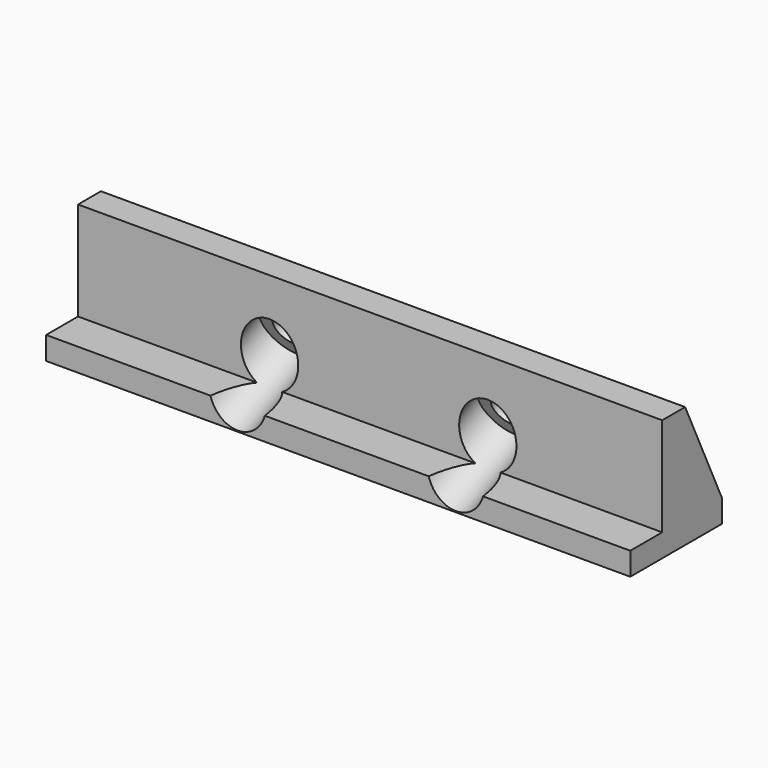
from build123d import *

# Parameters (mm, degrees)
PAD004_DEPTH            = 102
SKETCH006_R             = 2.75
POCKET001_DEPTH         = 19.817629
SKETCH007_R             = 5
POCKET002_DEPTH         = 14.817629
BODY002_PLACEMENT_ANGLE = 180


with BuildPart() as part:
    # Sketch004 → Pad004 (new body)
    with BuildSketch(Plane.YZ):
        Polygon((-6.970253, 4), (-6.970253, 21.219848), (-11.970253, 21.219848), (-20, 4), (-20, 0), (0, 0), (0, 4), align=None)
    extrude(amount=-PAD004_DEPTH)

    # Sketch006 (on Face3 of Pad004) → Pocket001 (cut, through all)
    with BuildSketch(Plane(origin=(0, -17.959965, 8.374869), x_dir=(0, -0.422618, -0.906308), z_dir=(0, -0.906308, 0.422618))):
        with Locations((-5.172866, -33.45)):
            Circle(SKETCH006_R)
        with Locations((-5.172866, -71.55)):
            Circle(SKETCH006_R)
    extrude(amount=-POCKET001_DEPTH, mode=Mode.SUBTRACT)

    # Sketch007 (on Face9 of Pocket001) → Pocket002 (cut, through all)
    with BuildSketch(Plane(origin=(0, -13.428426, 6.261778), x_dir=(0, -0.422618, -0.906308), z_dir=(0, -0.906308, 0.422618))):
        with Locations((-5.172866, -33.45)):
            Circle(SKETCH007_R)
        with Locations((-5.172866, -71.55)):
            Circle(SKETCH007_R)
    extrude(amount=-POCKET002_DEPTH, mode=Mode.SUBTRACT)


with BuildPart() as part_1:
    # Body002 placement: moved
    add(part.part.moved(Location((2, 35, 36))).rotate(Axis((2, 35, 36), (0, 0, 1)), BODY002_PLACEMENT_ANGLE))


solid = part_1.part
